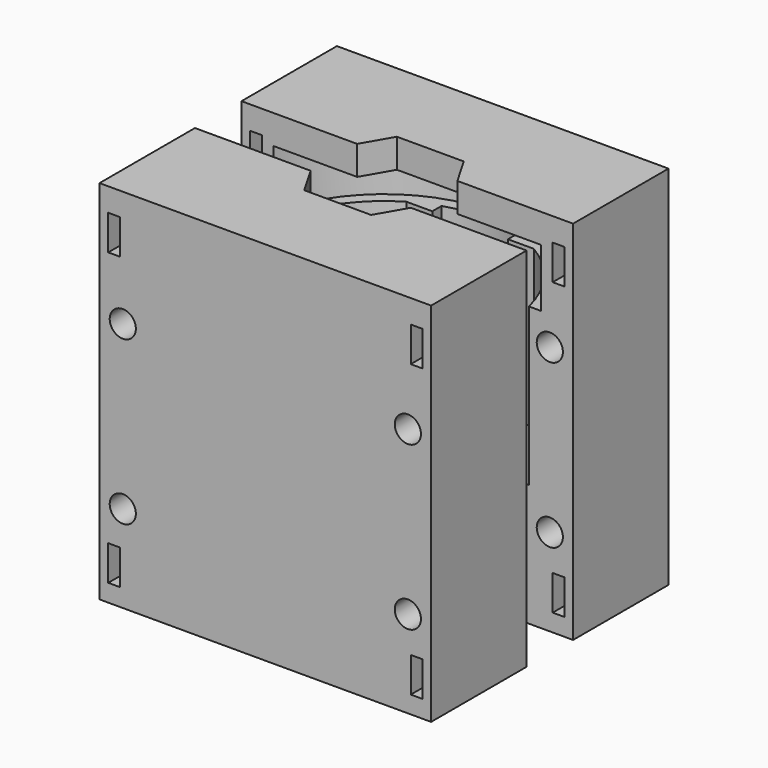
from build123d import *

# Parameters (mm, degrees)
F1_DEPTH  = 27
F3_DEPTH  = 10
F4_DEPTH  = 10
F6_DEPTH  = 5
F7_DEPTH  = 5
F9_DEPTH  = 21
F10_DEPTH = 21
F12_D     = 4.5
F11_W     = 2
F11_H     = 6
F13_DEPTH = 51.001


with BuildPart() as f1:
    # F0 (on Top) → F1 (new body)
    with BuildSketch(Plane.XY):
        with BuildLine():
            Line((6.5, 20.493902), (6.5, 18.5))
            Line((6.5, 18.5), (10.954451, 18.5))
            ThreePointArc((10.954451, 18.5), (17.303371, 12.761009), (20.910524, 5))
            Line((20.910524, 5), (28.5, 5))
            Line((28.5, 5), (28.5, 25.5))
            Line((28.5, 25.5), (-28.5, 25.5))
            Line((-28.5, 25.5), (-28.5, 5))
            Line((-28.5, 5), (-20.910524, 5))
            ThreePointArc((-20.910524, 5), (-17.303371, 12.761009), (-10.954451, 18.5))
            Line((-10.954451, 18.5), (-6.5, 18.5))
            Line((-6.5, 18.5), (-6.5, 20.493902))
            ThreePointArc((-6.5, 20.493902), (0, 21.5), (6.5, 20.493902))
        make_face()
        with BuildLine():
            Line((-28.5, -5), (-28.5, -25.5))
            Line((-28.5, -25.5), (28.5, -25.5))
            Line((28.5, -25.5), (28.5, -5))
            Line((28.5, -5), (20.910524, -5))
            ThreePointArc((20.910524, -5), (0, -21.5), (-20.910524, -5))
            Line((-20.910524, -5), (-28.5, -5))
        make_face()
    extrude(amount=F1_DEPTH)

    # F2 (on face) → F3 (join)
    with BuildSketch(Plane.XY.offset(27)):
        with BuildLine():
            Line((28.5, 5), (28.5, 25.5))
            Line((28.5, 25.5), (-28.5, 25.5))
            Line((-28.5, 25.5), (-28.5, 5))
            Line((-28.5, 5), (-22.961925, 5))
            ThreePointArc((-22.961925, 5), (0, 23.5), (22.961925, 5))
            Line((22.961925, 5), (28.5, 5))
        make_face()
    extrude(amount=F3_DEPTH)

    # F2 (on face) → F4 (join)
    with BuildSketch(Plane.XY.offset(27)):
        with BuildLine():
            Line((-22.961925, -5), (-28.5, -5))
            Line((-28.5, -5), (-28.5, -25.5))
            Line((-28.5, -25.5), (28.5, -25.5))
            Line((28.5, -25.5), (28.5, -5))
            Line((28.5, -5), (22.961925, -5))
            ThreePointArc((22.961925, -5), (0, -23.5), (-22.961925, -5))
        make_face()
    extrude(amount=F4_DEPTH)

    # F5 (on face) → F6 (join)
    with BuildSketch(Plane.XY.offset(37)):
        with BuildLine():
            ThreePointArc((22.961925, 5), (0, 23.5), (-22.961925, 5))
            Line((-22.961925, 5), (-8.613249, 5))
            Line((-8.613249, 5), (-5.75, 9.959292))
            Line((-5.75, 9.959292), (5.75, 9.959292))
            Line((5.75, 9.959292), (8.613249, 5))
            Line((8.613249, 5), (22.961925, 5))
        make_face()
        with BuildLine():
            Line((-28.5, 25.5), (-28.5, 5))
            Line((-28.5, 5), (-22.961925, 5))
            ThreePointArc((-22.961925, 5), (0, 23.5), (22.961925, 5))
            Line((22.961925, 5), (28.5, 5))
            Line((28.5, 5), (28.5, 25.5))
            Line((28.5, 25.5), (-28.5, 25.5))
        make_face()
    extrude(amount=F6_DEPTH)

    # F5 (on face) → F7 (join)
    with BuildSketch(Plane.XY.offset(37)):
        Polygon((-8.613249, -5), (-22.961925, -5), (-28.5, -5), (-28.5, -25.5), (28.5, -25.5), (28.5, -5), (22.961925, -5), (8.613249, -5), (5.75, -9.959292), (-5.75, -9.959292), align=None)
    extrude(amount=F7_DEPTH)

    # F8 (on face) → F9 (join)
    with BuildSketch(Plane(origin=(0, 0, 0), x_dir=(1, 0, 0), z_dir=(0, 0, -1))):
        with BuildLine():
            Line((17.811513, 5), (20.910524, 5))
            Line((20.910524, 5), (28.5, 5))
            Line((28.5, 5), (28.5, 25.5))
            Line((28.5, 25.5), (-28.5, 25.5))
            Line((-28.5, 25.5), (-28.5, 5))
            Line((-28.5, 5), (-20.910524, 5))
            Line((-20.910524, 5), (-17.811513, 5))
            ThreePointArc((-17.811513, 5), (0, 18.5), (17.811513, 5))
        make_face()
    extrude(amount=F9_DEPTH)

    # F8 (on face) → F10 (join)
    with BuildSketch(Plane(origin=(0, 0, 0), x_dir=(1, 0, 0), z_dir=(0, 0, -1))):
        with BuildLine():
            Line((-17.811513, -5), (-20.910524, -5))
            ThreePointArc((-20.910524, -5), (-17.303371, -12.761009), (-10.954451, -18.5))
            Line((-10.954451, -18.5), (-6.5, -18.5))
            Line((-6.5, -18.5), (-6.5, -20.493902))
            ThreePointArc((-6.5, -20.493902), (0, -21.5), (6.5, -20.493902))
            Line((6.5, -20.493902), (6.5, -18.5))
            Line((6.5, -18.5), (10.954451, -18.5))
            ThreePointArc((10.954451, -18.5), (17.303371, -12.761009), (20.910524, -5))
            Line((20.910524, -5), (17.811513, -5))
            ThreePointArc((17.811513, -5), (0, -18.5), (-17.811513, -5))
        make_face()
        with BuildLine():
            Line((-28.5, -5), (-28.5, -25.5))
            Line((-28.5, -25.5), (28.5, -25.5))
            Line((28.5, -25.5), (28.5, -5))
            Line((28.5, -5), (20.910524, -5))
            ThreePointArc((20.910524, -5), (17.303371, -12.761009), (10.954451, -18.5))
            Line((10.954451, -18.5), (6.5, -18.5))
            Line((6.5, -18.5), (6.5, -20.493902))
            ThreePointArc((6.5, -20.493902), (0, -21.5), (-6.5, -20.493902))
            Line((-6.5, -20.493902), (-6.5, -18.5))
            Line((-6.5, -18.5), (-10.954451, -18.5))
            ThreePointArc((-10.954451, -18.5), (-17.303371, -12.761009), (-20.910524, -5))
            Line((-20.910524, -5), (-28.5, -5))
        make_face()
    extrude(amount=F10_DEPTH)

    # F12 (through all)
    with Locations(Plane.XZ.offset(25.5)):
        with Locations((24.5, 22), (24.5, -6), (-24.5, 22), (-24.5, -6)):
            Hole(F12_D / 2)

    # F11 (on face) → F13 (cut, through all)
    with BuildSketch(Plane.XZ.offset(25.5)):
        with Locations((-26, 35)):
            Rectangle(F11_W, F11_H)
        with Locations((26, 35)):
            Rectangle(F11_W, F11_H)
        with Locations((-26, -15)):
            Rectangle(F11_W, F11_H)
        with Locations((26, -15)):
            Rectangle(F11_W, F11_H)
    extrude(amount=-F13_DEPTH, mode=Mode.SUBTRACT)


solid = f1.part
